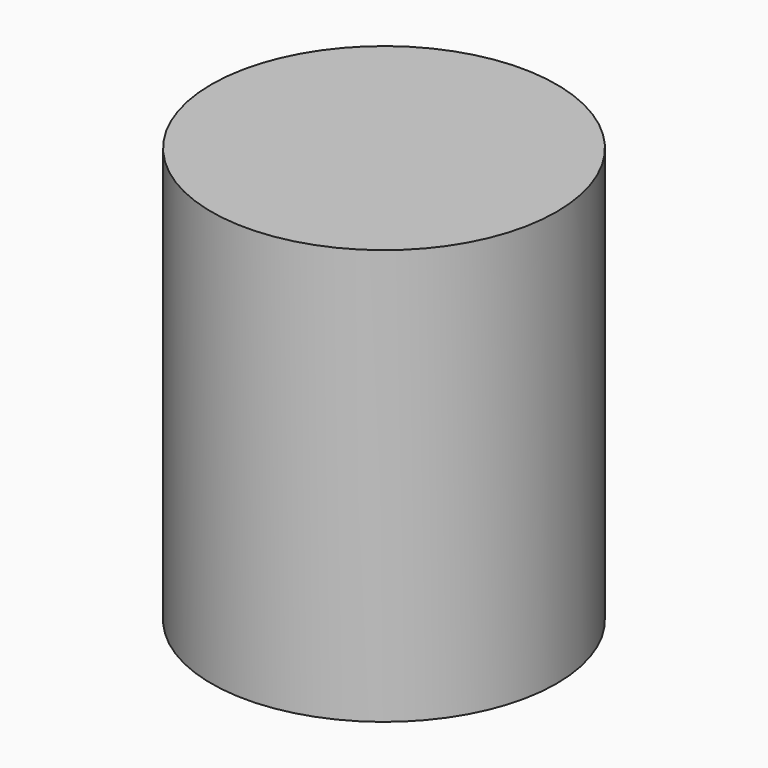
from build123d import *

# Parameters (mm, degrees)
F1_R     = 53.111387
F2_DEPTH = 127.812788


with BuildPart() as f2:
    # F1 (on face) → F2 (new body)
    with BuildSketch(Plane.XY):
        with Locations((46.0434, 0)):
            Circle(F1_R)
    extrude(amount=F2_DEPTH)


solid = f2.part
